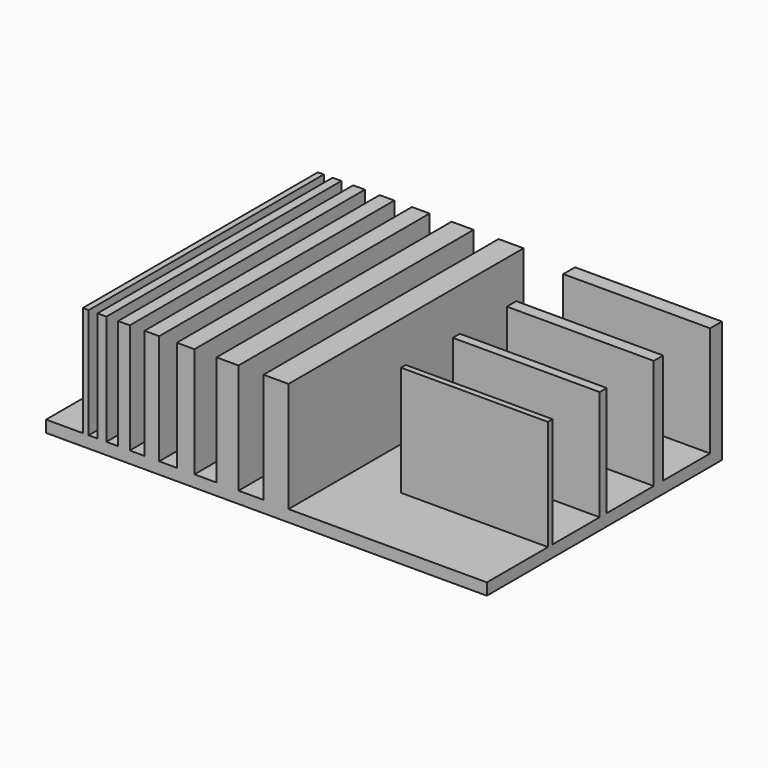
from build123d import *

# Parameters (mm, degrees)
F0_W     = 60
F0_H     = 40
F1_DEPTH = 1.6
F2_W     = 0.8
F2_H     = 40
F2_W_2   = 1.2
F2_W_3   = 1.6
F2_W_4   = 2
F2_W_5   = 2.4
F2_W_6   = 3
F2_W_7   = 3.4
F2_W_8   = 20
F2_H_2   = 0.8
F2_H_3   = 1.2
F2_H_4   = 1.6
F2_H_5   = 2
F3_DEPTH = 15


with BuildPart() as f1:
    # F0 (on Top) → F1 (new body)
    with BuildSketch(Plane.XY):
        with Locations((30, -20)):
            Rectangle(F0_W, F0_H)
    extrude(amount=F1_DEPTH)

    # F2 (on face) → F3 (join)
    with BuildSketch(Plane.XY.offset(1.6)):
        with Locations((5.4, -20)):
            Rectangle(F2_W, F2_H)
        with Locations((7.6, -20)):
            Rectangle(F2_W_2, F2_H)
        with Locations((10.6, -20)):
            Rectangle(F2_W_3, F2_H)
        with Locations((14.4, -20)):
            Rectangle(F2_W_4, F2_H)
        with Locations((19, -20)):
            Rectangle(F2_W_5, F2_H)
        with Locations((24.7, -20)):
            Rectangle(F2_W_6, F2_H)
        with Locations((31.3, -20)):
            Rectangle(F2_W_7, F2_H)
        with Locations((50, -29.2)):
            Rectangle(F2_W_8, F2_H_2)
        with Locations((50, -20.2)):
            Rectangle(F2_W_8, F2_H_3)
        with Locations((50, -10.8)):
            Rectangle(F2_W_8, F2_H_4)
        with Locations((50, -1)):
            Rectangle(F2_W_8, F2_H_5)
    extrude(amount=F3_DEPTH)


solid = f1.part
